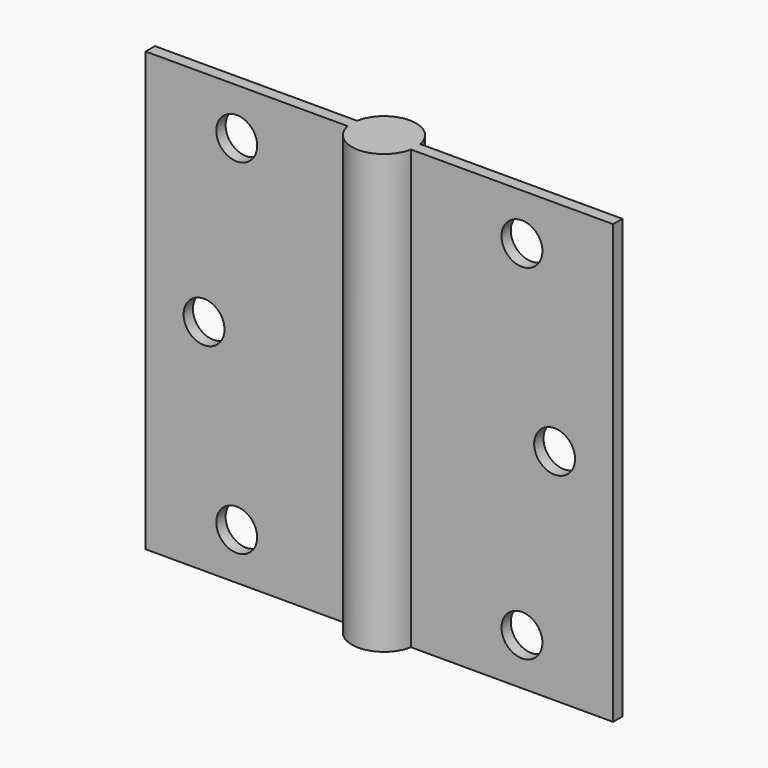
from build123d import *

# Parameters (mm, degrees)
F0_W      = 35
F0_H      = 75
F1_DEPTH  = 2
F2_R      = 5.5
F3_DEPTH  = 75
F4_W      = 35
F4_H      = 75
F5_DEPTH  = 2
F7_R      = 3.5
F8_DEPTH  = 6.501
F9_R      = 3.5
F10_DEPTH = 6.501


with BuildPart() as f1:
    # F0 (on Front) → F1 (new body)
    with BuildSketch(Plane.XZ):
        Rectangle(F0_W, F0_H)
    extrude(amount=F1_DEPTH)


with BuildPart() as f3:
    # F2 (on face) → F3 (new body)
    with BuildSketch(Plane.XY.offset(37.5)):
        with Locations((-22.5, -1)):
            Circle(F2_R)
    extrude(amount=-F3_DEPTH)


with BuildPart() as f5:
    # F4 (on face) → F5 (new body)
    with BuildSketch(Plane.XZ.offset(2)):
        with Locations((-45, 0)):
            Rectangle(F4_W, F4_H)
    extrude(amount=-F5_DEPTH)


with BuildPart() as f1_1:
    add(f1.part)

    # F6: union F3, F5
    add(f3.part)
    add(f5.part)

    # F7 (on face) → F8 (cut, through all)
    with BuildSketch(Plane.XZ.offset(2)):
        with Locations((1.908327, -29.5)):
            Circle(F7_R)
        with Locations((1.908327, 29.5)):
            Circle(F7_R)
        with Locations((7.5, 0)):
            Circle(F7_R)
    extrude(amount=-F8_DEPTH, mode=Mode.SUBTRACT)

    # F9 (on face) → F10 (cut, through all)
    with BuildSketch(Plane.XZ.offset(2)):
        with Locations((-46.908327, -29.5)):
            Circle(F9_R)
        with Locations((-46.908327, 29.5)):
            Circle(F9_R)
        with Locations((-52.5, 0)):
            Circle(F9_R)
    extrude(amount=-F10_DEPTH, mode=Mode.SUBTRACT)


solid = f1_1.part
